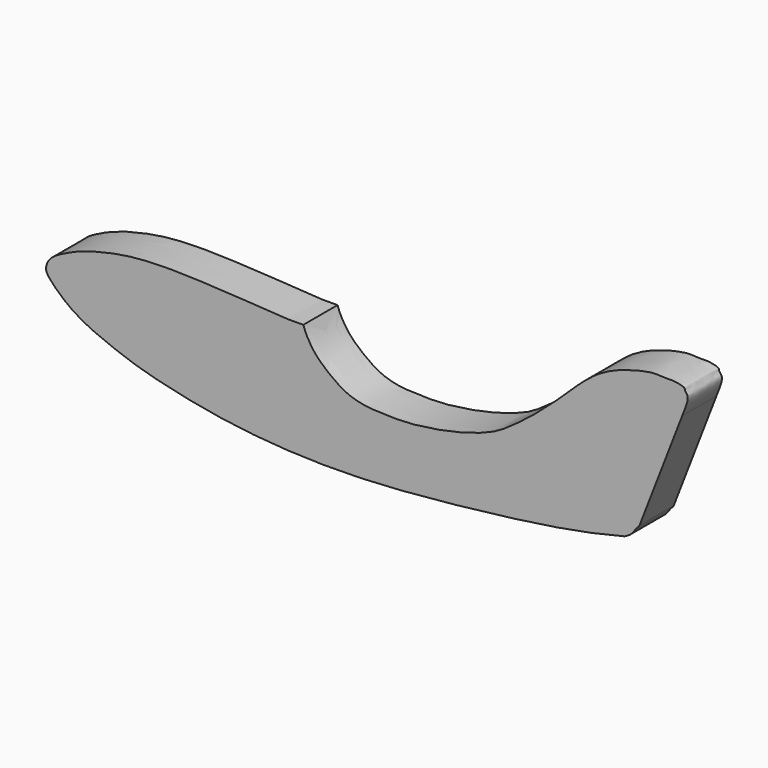
from build123d import *

# Parameters (mm, degrees)
F1_DEPTH = 60


with BuildPart() as f1:
    # F0 (on Front) → F1 (new body)
    with BuildSketch(Plane.XZ):
        with BuildLine():
            add(Edge.make_bspline(
                [(-62.4449264948, 153.6904168403), (-59.9781594759, 145.251147977), (-50.3783278687, 128.4013883741), (-39.2653868826, 116.2655408666), (-22.7739696224, 101.8432015396), (-0.6362283284, 87.308624018), (25.6867093962, 80.9750139483), (50.3133569645, 80.0206096691), (81.0680206368, 79.3819221417), (108.7217044297, 82.9149570368), (137.6547921433, 87.2114053872), (173.4120792833, 96.2977871476), (200.150766054, 105.9842216435), (215.8469222568, 114.4761057064), (231.6562400915, 125.4042692431), (249.0728287062, 138.3659783437), (268.3756640136, 153.7382331531), (297.4496992308, 179.7779386436), (325.6816017844, 207.6760670836), (336.3786204671, 216.1799875621), (346.8632227221, 224.6484655654), (356.1425044609, 230.5137620207), (365.1445258485, 235.3271534066), (373.8667821449, 239.2396612327), (382.4044043103, 242.5854575548), (390.6279391412, 245.2974973611), (399.1927999667, 247.4191233061), (406.630360903, 250.0130791466), (418.7594419781, 252.3449725602), (428.5560885257, 254.1282646389), (440.340801445, 253.6361752885), (447.176040072, 252.887063421), (455.9403239039, 253.6601535633), (463.3262292932, 252.5247198413), (473.3782852534, 250.3337624246), (472.2751772745, 245.9739141594), (480.4204460018, 240.3490814587), (473.1002175543, 224.2540994902), (469.1259944218, 214.1124388058)],
                knots=[0, 0, 0, 0, 0.0356930891, 0.0634586576, 0.0947340043, 0.1297723597, 0.1647078415, 0.1985200694, 0.2360139215, 0.2717912446, 0.3085437366, 0.3500835808, 0.3862063772, 0.4145322161, 0.4440033869, 0.4753893565, 0.5089159384, 0.5522029835, 0.5948370856, 0.6198099727, 0.6441477499, 0.6667611994, 0.6883436858, 0.7093277704, 0.7298315325, 0.7498754033, 0.7697822222, 0.7889822199, 0.8125724345, 0.8345321501, 0.8574569644, 0.8754909693, 0.8950417062, 0.9146641636, 0.9347866729, 0.9465867859, 0.9643842836, 1, 1, 1, 1], degree=3))
            add(Edge.make_bspline(
                [(388.1748810778, 38.9250197376), (367.835480517, 33.9450790943), (323.3489304475, 23.0515766844), (227.7614901952, 9.2905971471), (142.8301741196, -0.560296922), (-3.0877564707, -14.0188370892), (-164.9322511119, -5.366824745), (-287.0764204599, 22.8800982752), (-327.9267031396, 38.2019558084), (-378.9229647347, 58.3262185116), (-408.7471809298, 84.0453819267), (-419.1529753851, 95.6282549236), (-425.1778696072, 104.5347174334), (-419.8047560284, 121.2940977501), (-396.8641149573, 133.5486854232), (-366.2812953804, 147.4656684208), (-300.0913442862, 162.1896885648), (-227.1372250862, 161.91533417), (-159.0143086229, 158.2795842039), (-74.1434333054, 152.9649168677), (-85.7777522883, 153.690400234), (-62.4449264948, 153.6904168403)],
                knots=[0, 0, 0, 0, 0.0568063605, 0.124525964, 0.1894519626, 0.2732737584, 0.3645158867, 0.4409601469, 0.4868663693, 0.5380415426, 0.5816508104, 0.6084524473, 0.629829404, 0.6568184311, 0.6913720798, 0.7318942671, 0.7889284126, 0.8484664943, 0.9096533459, 0.9663358385, 1, 1, 1, 1], degree=3))
            add(Edge.make_bspline(
                [(409.2766727926, 59.3465479718), (407.9336865003, 57.0999755453), (403.8134313052, 53.4809150912), (401.6937518769, 49.1061725619), (396.2140544624, 43.0966777501), (390.9006042271, 40.3283982455), (388.1748810778, 38.9250197376)],
                knots=[0, 0, 0, 0, 0.2592628897, 0.4633548751, 0.7202047154, 1, 1, 1, 1], degree=3))
            Line((409.2766727926, 59.3465479718), (469.1259944218, 214.1124388058))
        make_face()
    extrude(amount=F1_DEPTH)


solid = f1.part
